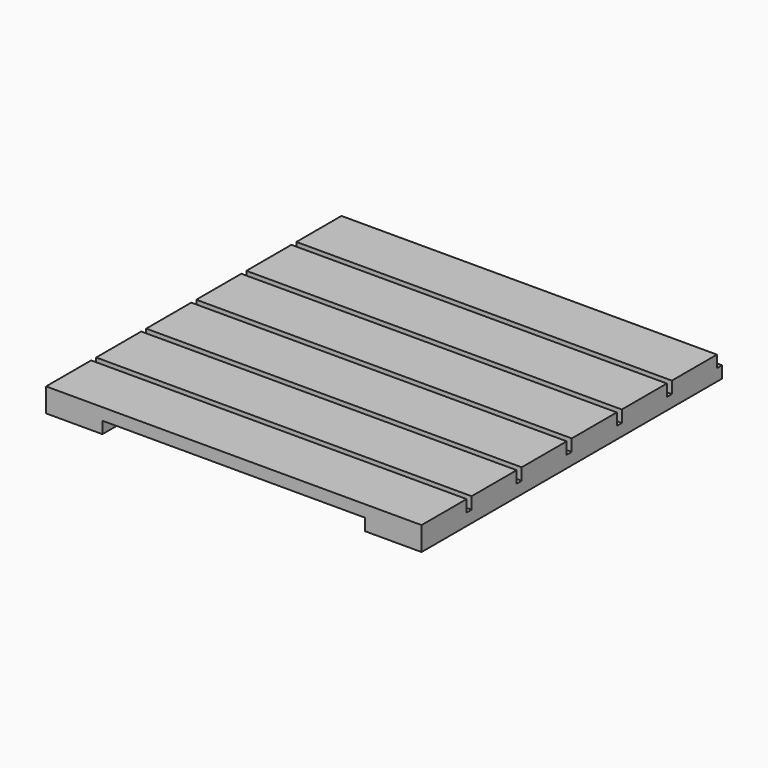
from build123d import *

# Parameters (mm, degrees)
BOX077_W     = 600
BOX077_H     = 90
BOX077_DEPTH = 19
BOX076_W     = 600
BOX076_H     = 90
BOX076_DEPTH = 19
BOX082_W     = 90
BOX082_H     = 600
BOX082_DEPTH = 19
BOX079_W     = 600
BOX079_H     = 90
BOX079_DEPTH = 19
BOX078_W     = 600
BOX078_H     = 90
BOX078_DEPTH = 19
BOX081_W     = 600
BOX081_H     = 90
BOX081_DEPTH = 19
BOX080_W     = 600
BOX080_H     = 90
BOX080_DEPTH = 19
BOX083_W     = 90
BOX083_H     = 600
BOX083_DEPTH = 19


with BuildPart() as cube049:
    # Box077 → Box077 (new body)
    with BuildSketch(Plane(origin=(0, 100, 0), x_dir=(1, 0, 0), z_dir=(0, 0, 1))):
        with Locations((300, 45)):
            Rectangle(BOX077_W, BOX077_H)
    extrude(amount=BOX077_DEPTH)


with BuildPart() as cube048:
    # Box076 → Box076 (new body)
    with BuildSketch(Plane.XY):
        with Locations((300, 45)):
            Rectangle(BOX076_W, BOX076_H)
    extrude(amount=BOX076_DEPTH)


with BuildPart() as cube054:
    # Box082 → Box082 (new body)
    with BuildSketch(Plane.XY.offset(-19)):
        with Locations((45, 300)):
            Rectangle(BOX082_W, BOX082_H)
    extrude(amount=BOX082_DEPTH)


with BuildPart() as cube051:
    # Box079 → Box079 (new body)
    with BuildSketch(Plane(origin=(0, 300, 0), x_dir=(1, 0, 0), z_dir=(0, 0, 1))):
        with Locations((300, 45)):
            Rectangle(BOX079_W, BOX079_H)
    extrude(amount=BOX079_DEPTH)


with BuildPart() as cube050:
    # Box078 → Box078 (new body)
    with BuildSketch(Plane(origin=(0, 200, 0), x_dir=(1, 0, 0), z_dir=(0, 0, 1))):
        with Locations((300, 45)):
            Rectangle(BOX078_W, BOX078_H)
    extrude(amount=BOX078_DEPTH)


with BuildPart() as cube053:
    # Box081 → Box081 (new body)
    with BuildSketch(Plane(origin=(0, 500, 0), x_dir=(1, 0, 0), z_dir=(0, 0, 1))):
        with Locations((300, 45)):
            Rectangle(BOX081_W, BOX081_H)
    extrude(amount=BOX081_DEPTH)


with BuildPart() as cube052:
    # Box080 → Box080 (new body)
    with BuildSketch(Plane(origin=(0, 400, 0), x_dir=(1, 0, 0), z_dir=(0, 0, 1))):
        with Locations((300, 45)):
            Rectangle(BOX080_W, BOX080_H)
    extrude(amount=BOX080_DEPTH)


with BuildPart() as obj1:
    # Box083 → Box083 (new body)
    with BuildSketch(Plane(origin=(510, 0, -19), x_dir=(1, 0, 0), z_dir=(0, 0, 1))):
        with Locations((45, 300)):
            Rectangle(BOX083_W, BOX083_H)
    extrude(amount=BOX083_DEPTH)

    # Fusion014: union Cube049, Cube048, Cube054, Cube051, Cube050, Cube053, Cube052
    add(cube049.part)
    add(cube048.part)
    add(cube054.part)
    add(cube051.part)
    add(cube050.part)
    add(cube053.part)
    add(cube052.part)


with BuildPart() as obj1_1:
    # Fusion014 placement: moved
    add(obj1.part.moved(Location((335, -115, 19))))


solid = obj1_1.part
